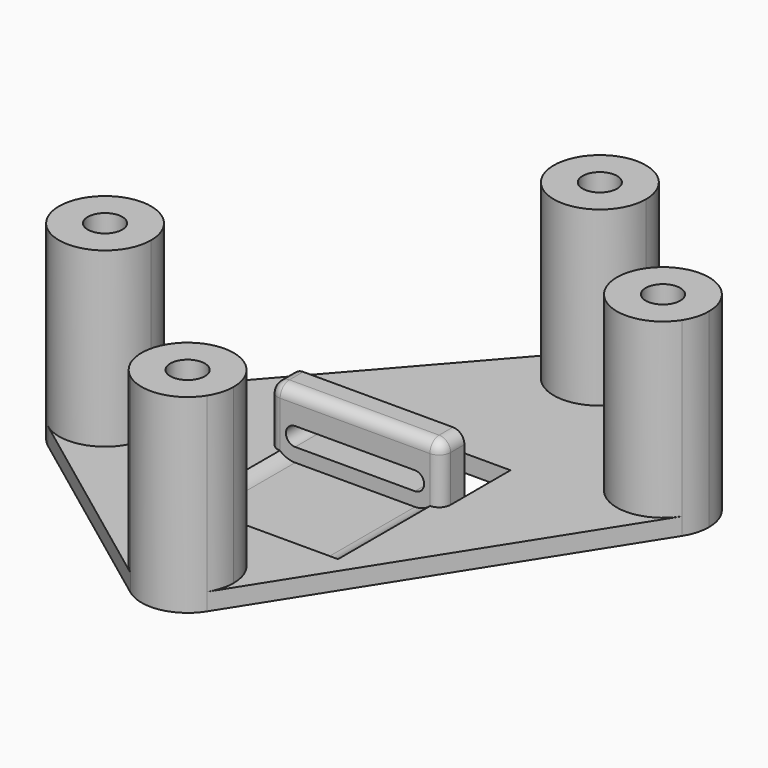
from build123d import *

# Parameters (mm, degrees)
F0_W      = 30
F0_H      = 10
F0_R      = 3
F1_DEPTH  = 3
F2_R      = 3
F3_DEPTH  = 30
F4_W      = 30
F4_H      = 5
F5_DEPTH  = 10
F7_DEPTH  = 5
F8_R      = 2
F10_DEPTH = 20


with BuildPart() as f1:
    # F0 (on Top) → F1 (new body)
    with BuildSketch(Plane.XY):
        with BuildLine():
            ThreePointArc((-43.277054, -7.431739), (-34.442413, -5.20991), (-29.2557, -12.69893))
            ThreePointArc((-29.2557, -12.69893), (-33.671529, -19.851113), (-42.04413, -19.107591))
            Line((-42.04413, -19.107591), (-6.405723, -45.735934))
            ThreePointArc((-6.405723, -45.735934), (-5.201464, -32.17509), (6.382707, -39.327273))
            ThreePointArc((6.382707, -39.327273), (6.065934, -41.556178), (5.140702, -43.608569))
            Line((5.140702, -43.608569), (41.625059, 13.981723))
            ThreePointArc((41.625059, 13.981723), (26.999486, 16.813462), (39.655494, 24.671681))
            Line((39.655494, 24.671681), (12.418684, 45.022509))
            ThreePointArc((12.418684, 45.022509), (14.782437, 42.198018), (15.630254, 38.613848))
            ThreePointArc((15.630254, 38.613848), (4.816967, 31.124828), (1.6089, 43.881039))
            Line((1.6089, 43.881039), (-43.277054, -7.431739))
        make_face()
        with Locations((0, 5)):
            Rectangle(F0_W, F0_H, mode=Mode.SUBTRACT)
        with BuildLine():
            ThreePointArc((-42.04413, -19.107591), (-33.671529, -19.851113), (-29.2557, -12.69893))
            ThreePointArc((-29.2557, -12.69893), (-34.442413, -5.20991), (-43.277054, -7.431739))
            ThreePointArc((-43.277054, -7.431739), (-45.211467, -13.539027), (-42.04413, -19.107591))
        make_face()
        with Locations((-37.2557, -12.69893)):
            Circle(F0_R, mode=Mode.SUBTRACT)
        with BuildLine():
            ThreePointArc((12.418684, 45.022509), (6.790157, 46.569615), (1.6089, 43.881039))
            ThreePointArc((1.6089, 43.881039), (4.816967, 31.124828), (15.630254, 38.613848))
            ThreePointArc((15.630254, 38.613848), (14.782437, 42.198018), (12.418684, 45.022509))
        make_face()
        with Locations((7.630254, 38.613848)):
            Circle(F0_R, mode=Mode.SUBTRACT)
        with BuildLine():
            ThreePointArc((42.867064, 18.26302), (42.019246, 21.84719), (39.655494, 24.671681))
            ThreePointArc((39.655494, 24.671681), (26.999486, 16.813462), (41.625059, 13.981723))
            ThreePointArc((41.625059, 13.981723), (42.550291, 16.034114), (42.867064, 18.26302))
        make_face()
        with Locations((34.867064, 18.26302)):
            Circle(F0_R, mode=Mode.SUBTRACT)
        with BuildLine():
            ThreePointArc((6.382707, -39.327273), (-5.201464, -32.17509), (-6.405723, -45.735934))
            ThreePointArc((-6.405723, -45.735934), (-0.167735, -47.19485), (5.140702, -43.608569))
            ThreePointArc((5.140702, -43.608569), (6.065934, -41.556178), (6.382707, -39.327273))
        make_face()
        with Locations((-1.617293, -39.327273)):
            Circle(F0_R, mode=Mode.SUBTRACT)
    extrude(amount=F1_DEPTH)

    # F2 (on face) → F3 (join)
    with BuildSketch(Plane.XY.offset(3)):
        with BuildLine():
            ThreePointArc((1.6089, 43.881039), (4.816967, 31.124828), (15.630254, 38.613848))
            ThreePointArc((15.630254, 38.613848), (14.782437, 42.198018), (12.418684, 45.022509))
            ThreePointArc((12.418684, 45.022509), (6.790157, 46.569615), (1.6089, 43.881039))
        make_face()
        with Locations((7.630254, 38.613848)):
            Circle(F2_R, mode=Mode.SUBTRACT)
        with BuildLine():
            ThreePointArc((-29.2557, -12.69893), (-34.442413, -5.20991), (-43.277054, -7.431739))
            ThreePointArc((-43.277054, -7.431739), (-45.211467, -13.539027), (-42.04413, -19.107591))
            ThreePointArc((-42.04413, -19.107591), (-33.671529, -19.851113), (-29.2557, -12.69893))
        make_face()
        with Locations((-37.2557, -12.69893)):
            Circle(F2_R, mode=Mode.SUBTRACT)
        with BuildLine():
            ThreePointArc((42.867064, 18.26302), (42.019246, 21.84719), (39.655494, 24.671681))
            ThreePointArc((39.655494, 24.671681), (26.999486, 16.813462), (41.625059, 13.981723))
            ThreePointArc((41.625059, 13.981723), (42.550291, 16.034114), (42.867064, 18.26302))
        make_face()
        with Locations((34.867064, 18.26302)):
            Circle(F2_R, mode=Mode.SUBTRACT)
        with BuildLine():
            ThreePointArc((-6.405723, -45.735934), (-0.167735, -47.19485), (5.140702, -43.608569))
            ThreePointArc((5.140702, -43.608569), (6.065934, -41.556178), (6.382707, -39.327273))
            ThreePointArc((6.382707, -39.327273), (-5.201464, -32.17509), (-6.405723, -45.735934))
        make_face()
        with Locations((-1.617293, -39.327273)):
            Circle(F2_R, mode=Mode.SUBTRACT)
    extrude(amount=F3_DEPTH)

    # F4 (on face) → F5 (join)
    with BuildSketch(Plane.XY.offset(3)):
        with Locations((0, -2.5)):
            Rectangle(F4_W, F4_H)
    extrude(amount=F5_DEPTH)

    # F6 (on face) → F7 (cut, through all)
    with BuildSketch(Plane(origin=(0, 0, 0), x_dir=(-1, 0, 0), z_dir=(0, 1, 0))):
        with BuildLine():
            Line((10.4, 7.6), (-10.4, 7.6))
            ThreePointArc((-10.4, 7.6), (-12, 6), (-10.4, 4.4))
            Line((-10.4, 4.4), (10.4, 4.4))
            ThreePointArc((10.4, 4.4), (12, 6), (10.4, 7.6))
        make_face()
    extrude(amount=-F7_DEPTH, mode=Mode.SUBTRACT)

    # F8
    f8_edges = [f1.edges().sort_by_distance(p)[0] for p in [
        (15, -5, 8),
        (15, -2.5, 13),
        (0, -5, 13),
        (-15, -5, 8),
        (-15, -2.5, 13),
    ]]
    fillet(f8_edges, radius=F8_R)

    # F9 (on face) → F10 (cut)
    with BuildSketch(Plane.XZ.offset(5)):
        with BuildLine():
            Line((10.4, 10), (-10.4, 10))
            ThreePointArc((-10.4, 10), (-11.785831, 9.752262), (-13, 9.039737))
            Line((-13, 9.039737), (-13, 3))
            Line((-13, 3), (13, 3))
            Line((13, 3), (13, 9.039737))
            ThreePointArc((13, 9.039737), (11.785831, 9.752262), (10.4, 10))
        make_face()
        with BuildLine():
            ThreePointArc((-10.4, 4.4), (-12, 6), (-10.4, 7.6))
            Line((-10.4, 7.6), (10.4, 7.6))
            ThreePointArc((10.4, 7.6), (12, 6), (10.4, 4.4))
            Line((10.4, 4.4), (-10.4, 4.4))
        make_face(mode=Mode.SUBTRACT)
        with BuildLine():
            Line((-13, 3), (-13, 9.039737))
            ThreePointArc((-13, 9.039737), (-14.152262, 4.614169), (-10.4, 2))
            Line((-10.4, 2), (10.4, 2))
            ThreePointArc((10.4, 2), (14.152262, 4.614169), (13, 9.039737))
            Line((13, 9.039737), (13, 3))
            Line((13, 3), (-13, 3))
        make_face()
    extrude(amount=F10_DEPTH, mode=Mode.SUBTRACT)


solid = f1.part
